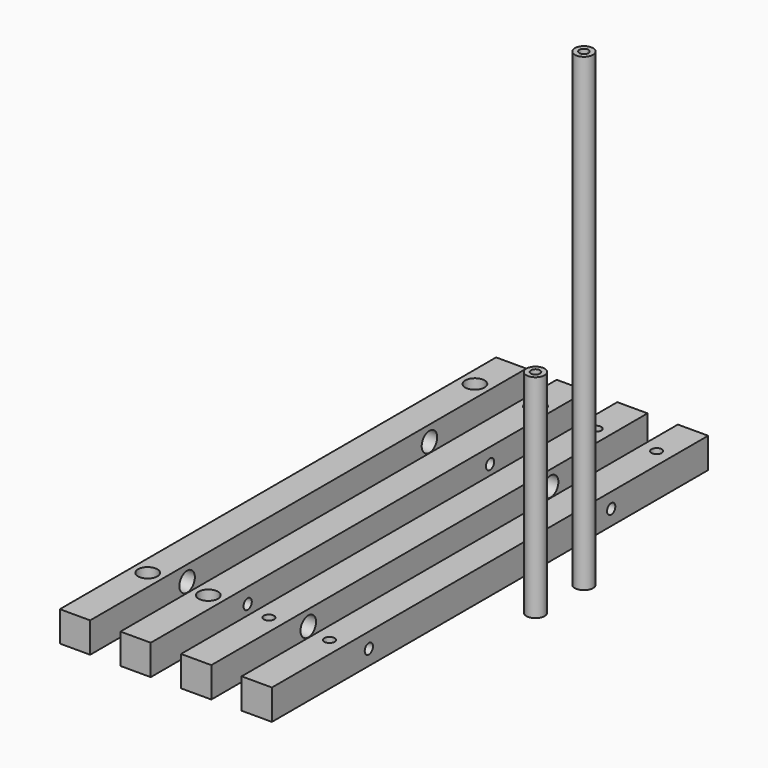
from build123d import *

# Parameters (mm, degrees)
SKETCH_W                = 10
SKETCH_H                = 180
PAD_DEPTH               = 10
SKETCH001_R             = 1.7
POCKET_DEPTH            = 10.001
SKETCH002_R             = 3.2
POCKET001_DEPTH         = 7
SKETCH017_R             = 1.7
POCKET011_DEPTH         = 371.110402
SKETCH018_R             = 3.2
POCKET012_DEPTH         = 7
SKETCH003_R             = 3
PAD001_DEPTH            = 155
SKETCH004_R             = 1.5
POCKET002_DEPTH         = 15
SKETCH005_R             = 1.5
POCKET003_DEPTH         = 15
SKETCH006_R             = 3
PAD002_DEPTH            = 70
SKETCH007_R             = 1.5
POCKET004_DEPTH         = 70.001
SKETCH010_W             = 10
SKETCH010_H             = 180
PAD003_DEPTH            = 10
SKETCH008_R             = 1.7
POCKET005_DEPTH         = 10.001
SKETCH009_R             = 3.2
POCKET006_DEPTH         = 7
SKETCH019_R             = 1.7
POCKET013_DEPTH         = 371.110402
SKETCH020_R             = 3.2
POCKET014_DEPTH         = 7
SKETCH013_W             = 10
SKETCH013_H             = 180
PAD004_DEPTH            = 10
SKETCH011_R             = 1.7
POCKET007_DEPTH         = 10.001
SKETCH012_R             = 3.2
POCKET008_DEPTH         = 7
SKETCH021_R             = 1.7
POCKET015_DEPTH         = 371.110402
SKETCH022_R             = 3.2
POCKET016_DEPTH         = 7
BODY004_PLACEMENT_ANGLE = 180
SKETCH016_W             = 10
SKETCH016_H             = 180
PAD005_DEPTH            = 10
SKETCH014_R             = 1.7
POCKET009_DEPTH         = 10.001
SKETCH015_R             = 3.2
POCKET010_DEPTH         = 7
SKETCH023_R             = 1.7
POCKET017_DEPTH         = 371.110402
SKETCH024_R             = 3.2
POCKET018_DEPTH         = 7
BODY005_PLACEMENT_ANGLE = 180


with BuildPart() as l1:
    # Sketch → Pad (new body)
    with BuildSketch(Plane.XY):
        Rectangle(SKETCH_W, SKETCH_H)
    extrude(amount=PAD_DEPTH)

    # Sketch001 (on Face6 of Pad) → Pocket (cut, through all)
    with BuildSketch(Plane.XY.offset(10)):
        with Locations((0, -60)):
            Circle(SKETCH001_R)
        with Locations((0, 75)):
            Circle(SKETCH001_R)
    extrude(amount=-POCKET_DEPTH, mode=Mode.SUBTRACT)

    # Sketch002 (on Face5 of Pocket) → Pocket001 (cut)
    with BuildSketch(Plane.XY.offset(10)):
        with Locations((0, 75)):
            Circle(SKETCH002_R)
        with Locations((0, -60)):
            Circle(SKETCH002_R)
    extrude(amount=-POCKET001_DEPTH, mode=Mode.SUBTRACT)

    # Sketch017 (on Face3 of Pocket001) → Pocket011 (cut, through all)
    with BuildSketch(Plane.YZ.offset(5)):
        with Locations((-50, 5)):
            Circle(SKETCH017_R)
    pocket011 = extrude(amount=-POCKET011_DEPTH, mode=Mode.SUBTRACT)

    # Mirrored: Pocket011 across Sketch017 V_Axis
    add(pocket011.mirror(Plane(origin=(5, 0, 0), x_dir=(1, 0, 0), z_dir=(0, 1, 0))), mode=Mode.SUBTRACT)

    # Sketch018 (on Face3 of Mirrored) → Pocket012 (cut)
    with BuildSketch(Plane.YZ.offset(5)):
        with Locations((-50, 5)):
            Circle(SKETCH018_R)
    pocket012 = extrude(amount=-POCKET012_DEPTH, mode=Mode.SUBTRACT)

    # Mirrored001: Pocket012 across Sketch018 V_Axis
    add(pocket012.mirror(Plane(origin=(5, 0, 0), x_dir=(1, 0, 0), z_dir=(0, 1, 0))), mode=Mode.SUBTRACT)


with BuildPart() as body001:
    # Sketch003 → Pad001 (new body)
    with BuildSketch(Plane.XY):
        Circle(SKETCH003_R)
    extrude(amount=PAD001_DEPTH)

    # Sketch004 (on Face3 of Pad001) → Pocket002 (cut)
    with BuildSketch(Plane.XY.offset(155)):
        Circle(SKETCH004_R)
    extrude(amount=-POCKET002_DEPTH, mode=Mode.SUBTRACT)

    # Sketch005 (on Face2 of Pocket002) → Pocket003 (cut)
    with BuildSketch(Plane(origin=(0, 0, 0), x_dir=(1, 0, 0), z_dir=(0, 0, -1))):
        Circle(SKETCH005_R)
    extrude(amount=-POCKET003_DEPTH, mode=Mode.SUBTRACT)


with BuildPart() as body001_1:
    # Body001 placement: moved
    add(body001.part.moved(Location((80, 20, 0))))


with BuildPart() as body002:
    # Sketch006 → Pad002 (new body)
    with BuildSketch(Plane.XY):
        Circle(SKETCH006_R)
    extrude(amount=PAD002_DEPTH)

    # Sketch007 (on Face2 of Pad002) → Pocket004 (cut, through all)
    with BuildSketch(Plane(origin=(0, 0, 0), x_dir=(1, 0, 0), z_dir=(0, 0, -1))):
        Circle(SKETCH007_R)
    extrude(amount=-POCKET004_DEPTH, mode=Mode.SUBTRACT)


with BuildPart() as body002_1:
    # Body002 placement: moved
    add(body002.part.moved(Location((80, 0, 0))))


with BuildPart() as l2:
    # Sketch010 → Pad003 (new body)
    with BuildSketch(Plane.XY):
        Rectangle(SKETCH010_W, SKETCH010_H)
    extrude(amount=PAD003_DEPTH)

    # Sketch008 (on Face6 of Pad003) → Pocket005 (cut, through all)
    with BuildSketch(Plane.XY.offset(10)):
        with Locations((0, -60)):
            Circle(SKETCH008_R)
        with Locations((0, 75)):
            Circle(SKETCH008_R)
    extrude(amount=-POCKET005_DEPTH, mode=Mode.SUBTRACT)

    # Sketch009 (on Face5 of Pocket005) → Pocket006 (cut)
    with BuildSketch(Plane.XY.offset(10)):
        with Locations((0, 75)):
            Circle(SKETCH009_R)
        with Locations((0, -60)):
            Circle(SKETCH009_R)
    extrude(amount=-POCKET006_DEPTH, mode=Mode.SUBTRACT)

    # Sketch019 (on Face2 of Pocket006) → Pocket013 (cut, through all)
    with BuildSketch(Plane(origin=(-5, 0, 0), x_dir=(0, -1, 0), z_dir=(-1, 0, 0))):
        with Locations((-50, 5)):
            Circle(SKETCH019_R)
    pocket013 = extrude(amount=-POCKET013_DEPTH, mode=Mode.SUBTRACT)

    # Mirrored002: Pocket013 across Sketch019 V_Axis
    add(pocket013.mirror(Plane(origin=(-5, 0, 0), x_dir=(-1, 0, 0), z_dir=(0, -1, 0))), mode=Mode.SUBTRACT)

    # Sketch020 (on Face2 of Mirrored002) → Pocket014 (cut)
    with BuildSketch(Plane(origin=(-5, 0, 0), x_dir=(0, -1, 0), z_dir=(-1, 0, 0))):
        with Locations((-50, 5)):
            Circle(SKETCH020_R)
    pocket014 = extrude(amount=-POCKET014_DEPTH, mode=Mode.SUBTRACT)

    # Mirrored003: Pocket014 across Sketch020 V_Axis
    add(pocket014.mirror(Plane(origin=(-5, 0, 0), x_dir=(-1, 0, 0), z_dir=(0, -1, 0))), mode=Mode.SUBTRACT)


with BuildPart() as l2_1:
    # Body003 placement: moved
    add(l2.part.moved(Location((20, 0, 0))))


with BuildPart() as r1:
    # Sketch013 → Pad004 (new body)
    with BuildSketch(Plane.XY):
        Rectangle(SKETCH013_W, SKETCH013_H)
    extrude(amount=PAD004_DEPTH)

    # Sketch011 (on Face6 of Pad004) → Pocket007 (cut, through all)
    with BuildSketch(Plane.XY.offset(10)):
        with Locations((0, -60)):
            Circle(SKETCH011_R)
        with Locations((0, 75)):
            Circle(SKETCH011_R)
    extrude(amount=-POCKET007_DEPTH, mode=Mode.SUBTRACT)

    # Sketch012 (on Face5 of Pocket007) → Pocket008 (cut)
    with BuildSketch(Plane.XY.offset(10)):
        with Locations((0, 75)):
            Circle(SKETCH012_R)
        with Locations((0, -60)):
            Circle(SKETCH012_R)
    extrude(amount=-POCKET008_DEPTH, mode=Mode.SUBTRACT)

    # Sketch021 (on Face2 of Pocket008) → Pocket015 (cut, through all)
    with BuildSketch(Plane(origin=(-5, 0, 0), x_dir=(0, -1, 0), z_dir=(-1, 0, 0))):
        with Locations((-50, 5)):
            Circle(SKETCH021_R)
    pocket015 = extrude(amount=-POCKET015_DEPTH, mode=Mode.SUBTRACT)

    # Mirrored004: Pocket015 across Sketch021 V_Axis
    add(pocket015.mirror(Plane(origin=(-5, 0, 0), x_dir=(-1, 0, 0), z_dir=(0, -1, 0))), mode=Mode.SUBTRACT)

    # Sketch022 (on Face2 of Mirrored004) → Pocket016 (cut)
    with BuildSketch(Plane(origin=(-5, 0, 0), x_dir=(0, -1, 0), z_dir=(-1, 0, 0))):
        with Locations((-50, 5)):
            Circle(SKETCH022_R)
    pocket016 = extrude(amount=-POCKET016_DEPTH, mode=Mode.SUBTRACT)

    # Mirrored005: Pocket016 across Sketch022 V_Axis
    add(pocket016.mirror(Plane(origin=(-5, 0, 0), x_dir=(-1, 0, 0), z_dir=(0, -1, 0))), mode=Mode.SUBTRACT)


with BuildPart() as r1_1:
    # Body004 placement: moved
    add(r1.part.moved(Location((40, 0, 10))).rotate(Axis((40, 0, 10), (0, 1, 0)), BODY004_PLACEMENT_ANGLE))


with BuildPart() as r2:
    # Sketch016 → Pad005 (new body)
    with BuildSketch(Plane.XY):
        Rectangle(SKETCH016_W, SKETCH016_H)
    extrude(amount=PAD005_DEPTH)

    # Sketch014 (on Face6 of Pad005) → Pocket009 (cut, through all)
    with BuildSketch(Plane.XY.offset(10)):
        with Locations((0, -60)):
            Circle(SKETCH014_R)
        with Locations((0, 75)):
            Circle(SKETCH014_R)
    extrude(amount=-POCKET009_DEPTH, mode=Mode.SUBTRACT)

    # Sketch015 (on Face5 of Pocket009) → Pocket010 (cut)
    with BuildSketch(Plane.XY.offset(10)):
        with Locations((0, 75)):
            Circle(SKETCH015_R)
        with Locations((0, -60)):
            Circle(SKETCH015_R)
    extrude(amount=-POCKET010_DEPTH, mode=Mode.SUBTRACT)

    # Sketch023 (on Face3 of Pocket010) → Pocket017 (cut, through all)
    with BuildSketch(Plane.YZ.offset(5)):
        with Locations((-50, 5)):
            Circle(SKETCH023_R)
    pocket017 = extrude(amount=-POCKET017_DEPTH, mode=Mode.SUBTRACT)

    # Mirrored006: Pocket017 across Sketch023 V_Axis
    add(pocket017.mirror(Plane(origin=(5, 0, 0), x_dir=(1, 0, 0), z_dir=(0, 1, 0))), mode=Mode.SUBTRACT)

    # Sketch024 (on Face3 of Mirrored006) → Pocket018 (cut)
    with BuildSketch(Plane.YZ.offset(5)):
        with Locations((-50, 5)):
            Circle(SKETCH024_R)
    pocket018 = extrude(amount=-POCKET018_DEPTH, mode=Mode.SUBTRACT)

    # Mirrored007: Pocket018 across Sketch024 V_Axis
    add(pocket018.mirror(Plane(origin=(5, 0, 0), x_dir=(1, 0, 0), z_dir=(0, 1, 0))), mode=Mode.SUBTRACT)


with BuildPart() as r2_1:
    # Body005 placement: moved
    add(r2.part.moved(Location((60, 0, 10))).rotate(Axis((60, 0, 10), (0, 1, 0)), BODY005_PLACEMENT_ANGLE))


solid = Compound([l1.part, body001_1.part, body002_1.part, l2_1.part, r1_1.part, r2_1.part])
